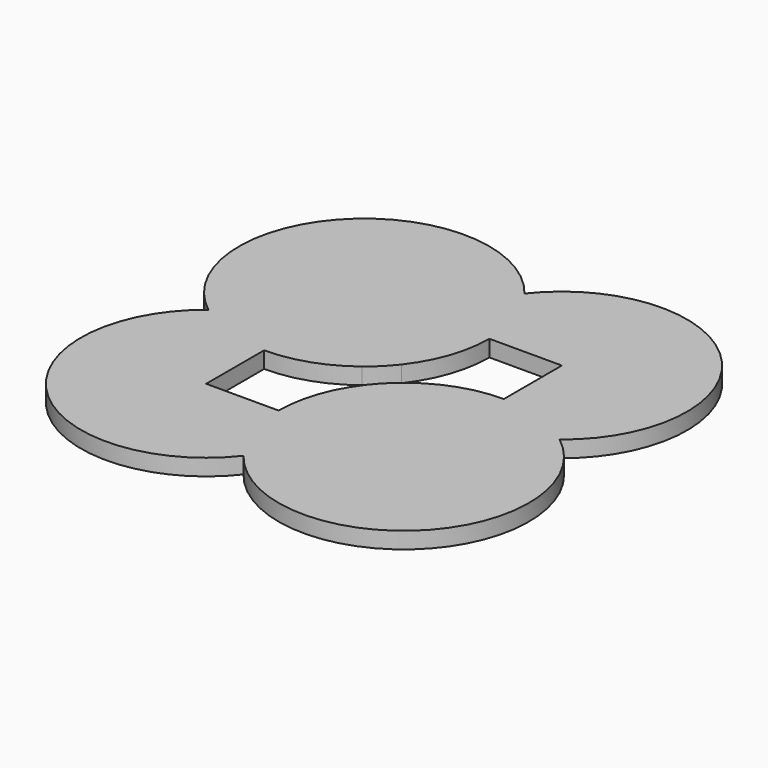
from build123d import *

# Parameters (mm, degrees)
F1_DEPTH = 25


with BuildPart() as f1:
    # F0 (on Top) → F1 (new body)
    with BuildSketch(Plane.XY):
        with BuildLine():
            ThreePointArc((0, -266.6190378969), (29.7220075561, -211.6441400297), (40, -150))
            Line((40, -150), (-40, -150))
            ThreePointArc((-40, -150), (-29.7220075561, -211.6441400297), (0, -266.6190378969))
        make_face()
        with BuildLine():
            Line((150, -150), (40, -150))
            ThreePointArc((40, -150), (29.7220075561, -211.6441400297), (0, -266.6190378969))
            ThreePointArc((0, -266.6190378969), (211.6441400297, -329.7220075561), (340, -150))
            ThreePointArc((340, -150), (320.6716397068, -66.506339164), (266.6190378969, 0))
            ThreePointArc((266.6190378969, 0), (211.6441400297, -29.7220075561), (150, -40))
            Line((150, -40), (150, -150))
        make_face()
        with BuildLine():
            ThreePointArc((0, -266.6190378969), (-29.7220075561, -211.6441400297), (-40, -150))
            Line((-40, -150), (-150, -150))
            Line((-150, -150), (-150, -40))
            ThreePointArc((-150, -40), (-211.6441400297, -29.7220075561), (-266.6190378969, 0))
            ThreePointArc((-266.6190378969, 0), (-284.3502884254, -284.3502884254), (0, -266.6190378969))
        make_face()
        with BuildLine():
            Line((150, 40), (150, -40))
            ThreePointArc((150, -40), (211.6441400297, -29.7220075561), (266.6190378969, 0))
            ThreePointArc((266.6190378969, 0), (211.6441400297, 29.7220075561), (150, 40))
        make_face()
        with BuildLine():
            ThreePointArc((-150, 40), (-211.6441400297, 29.7220075561), (-266.6190378969, 0))
            ThreePointArc((-266.6190378969, 0), (-211.6441400297, -29.7220075561), (-150, -40))
            Line((-150, -40), (-150, 40))
        make_face()
        with BuildLine():
            ThreePointArc((0, 266.6190378969), (-284.3502884254, 284.3502884254), (-266.6190378969, 0))
            ThreePointArc((-266.6190378969, 0), (-211.6441400297, 29.7220075561), (-150, 40))
            Line((-150, 40), (-150, 150))
            Line((-150, 150), (-40, 150))
            ThreePointArc((-40, 150), (-29.7220075561, 211.6441400297), (0, 266.6190378969))
        make_face()
        with BuildLine():
            Line((150, 150), (150, 40))
            ThreePointArc((150, 40), (211.6441400297, 29.7220075561), (266.6190378969, 0))
            ThreePointArc((266.6190378969, 0), (320.6716397068, 66.506339164), (340, 150))
            ThreePointArc((340, 150), (211.6441400297, 329.7220075561), (0, 266.6190378969))
            ThreePointArc((0, 266.6190378969), (29.7220075561, 211.6441400297), (40, 150))
            Line((40, 150), (150, 150))
        make_face()
        with BuildLine():
            ThreePointArc((40, 150), (29.7220075561, 211.6441400297), (0, 266.6190378969))
            ThreePointArc((0, 266.6190378969), (-29.7220075561, 211.6441400297), (-40, 150))
            Line((-40, 150), (40, 150))
        make_face()
        with BuildLine():
            ThreePointArc((-40, 150), (-29.7220075561, 88.3558599703), (0, 33.3809621031))
            ThreePointArc((0, 33.3809621031), (29.7220075561, 88.3558599703), (40, 150))
            Line((40, 150), (-40, 150))
        make_face()
        with BuildLine():
            ThreePointArc((-150, 40), (-88.3558599703, 29.7220075561), (-33.3809621031, 0))
            ThreePointArc((-33.3809621031, 0), (-15.6497115746, 15.6497115746), (0, 33.3809621031))
            ThreePointArc((0, 33.3809621031), (-29.7220075561, 88.3558599703), (-40, 150))
            Line((-40, 150), (-150, 150))
            Line((-150, 150), (-150, 40))
        make_face()
        with BuildLine():
            ThreePointArc((-150, -40), (-88.3558599703, -29.7220075561), (-33.3809621031, 0))
            ThreePointArc((-33.3809621031, 0), (-88.3558599703, 29.7220075561), (-150, 40))
            Line((-150, 40), (-150, -40))
        make_face()
        with BuildLine():
            Line((-40, -150), (40, -150))
            ThreePointArc((40, -150), (29.7220075561, -88.3558599703), (0, -33.3809621031))
            ThreePointArc((0, -33.3809621031), (-29.7220075561, -88.3558599703), (-40, -150))
        make_face()
        with BuildLine():
            ThreePointArc((0, -33.3809621031), (29.7220075561, -88.3558599703), (40, -150))
            Line((40, -150), (150, -150))
            Line((150, -150), (150, -40))
            ThreePointArc((150, -40), (88.3558599703, -29.7220075561), (33.3809621031, 0))
            ThreePointArc((33.3809621031, 0), (15.6497115746, -15.6497115746), (0, -33.3809621031))
        make_face()
        with BuildLine():
            ThreePointArc((33.3809621031, 0), (88.3558599703, -29.7220075561), (150, -40))
            Line((150, -40), (150, 40))
            ThreePointArc((150, 40), (88.3558599703, 29.7220075561), (33.3809621031, 0))
        make_face()
    extrude(amount=F1_DEPTH)


solid = f1.part
